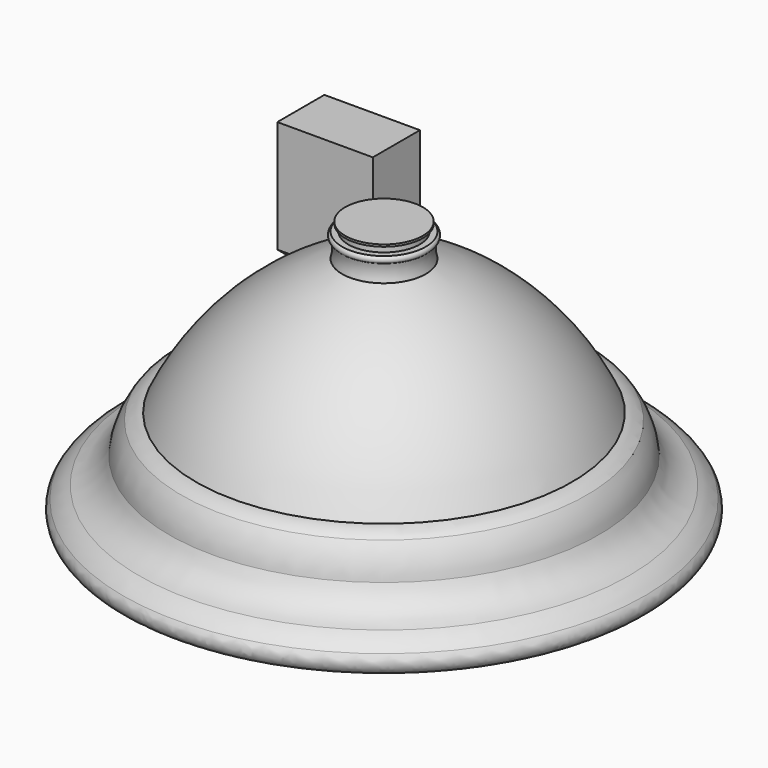
from build123d import *

# Parameters (mm, degrees)
F2_W     = 19.453846
F2_H     = 11.986714
F3_DEPTH = 25.4
F4_R     = 2.54
F5_SIZE  = 2.54


with BuildPart() as f1:
    # F0 (on Front) → F1 (revolve)
    with BuildSketch(Plane.XZ):
        with BuildLine():
            Line((-55.211578, 0), (0, 0))
            Line((0, 0), (0, 53.995118))
            Line((0, 53.995118), (-7.906379, 53.995118))
            Line((-7.906379, 53.995118), (-7.906379, 53.568877))
            Line((-7.906379, 53.568877), (-7.267021, 53.568877))
            Line((-7.267021, 53.568877), (-7.267021, 52.224588))
            Line((-7.267021, 52.224588), (-8.510735, 52.224588))
            ThreePointArc((-8.510735, 52.224588), (-8.922974, 51.560538), (-8.510735, 50.896488))
            ThreePointArc((-8.510735, 50.896488), (-8.239185, 49.117178), (-8.510735, 47.337867))
            ThreePointArc((-8.510735, 47.337867), (-26.066282, 36.405027), (-38.31844, 19.743429))
            ThreePointArc((-38.31844, 19.743429), (-39.89955, 19.255503), (-41.286033, 18.352371))
            ThreePointArc((-41.286033, 18.352371), (-42.957916, 15.366039), (-43.789942, 12.046235))
            ThreePointArc((-43.789942, 12.046235), (-46.20251, 8.635139), (-49.908772, 6.706492))
            ThreePointArc((-49.908772, 6.706492), (-53.324908, 3.957918), (-55.211578, 0))
        make_face()
    revolve(axis=Axis((0, 0, 26.997559), (0, 0, -1)))

    # F4
    f4_edges = [f1.edges().sort_by_distance(p)[0] for p in [
        (55.211578, 0, 0),
    ]]
    fillet(f4_edges, radius=F4_R)


with BuildPart() as f3:
    # F2 (on Top) → F3 (new body)
    with BuildSketch(Plane.XY):
        with Locations((-59.225861, 65.021874)):
            Rectangle(F2_W, F2_H)
    extrude(amount=F3_DEPTH)

    # F5
    f5_edges = [f3.edges().sort_by_distance(p)[0] for p in [
        (-59.225861, 71.015231, 0),
        (-68.952784, 65.021874, 0),
        (-59.225861, 59.028517, 0),
        (-49.498938, 65.021874, 0),
    ]]
    chamfer(f5_edges, length=F5_SIZE)


solid = Compound([f1.part, f3.part])
